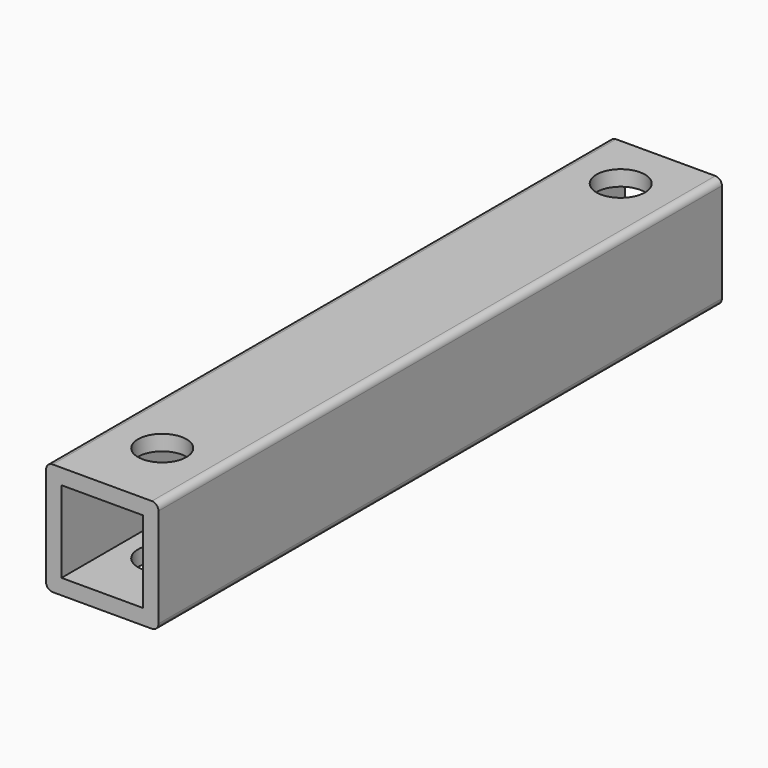
from build123d import *

# Parameters (mm, degrees)
F0_W     = 9.398
F0_H     = 9.398
F1_DEPTH = 40.5765
F2_R     = 2.794
F3_DEPTH = 12.955


with BuildPart() as f1:
    # F0 (on Front) → F1 (new body, symmetric)
    with BuildSketch(Plane.XZ):
        with BuildLine():
            Line((5.715, 6.477), (-5.715, 6.477))
            ThreePointArc((-5.715, 6.477), (-6.2538153673, 6.2538153673), (-6.477, 5.715))
            Line((-6.477, 5.715), (-6.477, -5.715))
            ThreePointArc((-6.477, -5.715), (-6.2538153673, -6.2538153673), (-5.715, -6.477))
            Line((-5.715, -6.477), (5.715, -6.477))
            ThreePointArc((5.715, -6.477), (6.2538153673, -6.2538153673), (6.477, -5.715))
            Line((6.477, -5.715), (6.477, 5.715))
            ThreePointArc((6.477, 5.715), (6.2538153673, 6.2538153673), (5.715, 6.477))
        make_face()
        Rectangle(F0_W, F0_H, mode=Mode.SUBTRACT)
    extrude(amount=F1_DEPTH, both=True)

    # F2 (on face) → F3 (cut, through all)
    with BuildSketch(Plane.XY.offset(6.477)):
        with Locations((0, -31.9405)):
            Circle(F2_R)
        with Locations((0, 34.0995)):
            Circle(F2_R)
    extrude(amount=-F3_DEPTH, mode=Mode.SUBTRACT)


solid = f1.part
